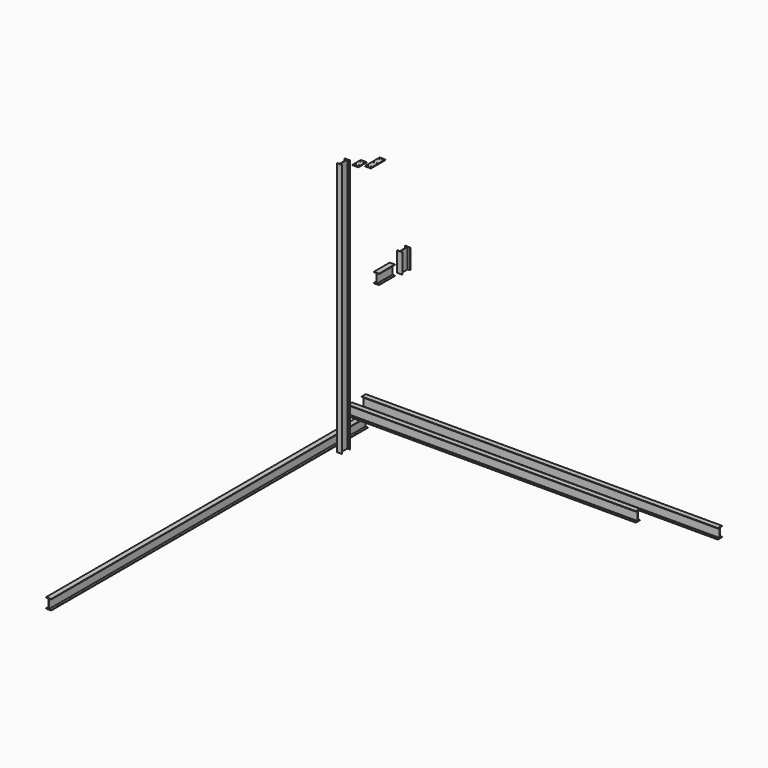
from build123d import *

# Parameters (mm, degrees)
F1_DEPTH  = 6300
F3_DEPTH  = 7000
F5_DEPTH  = 5090
F7_DEPTH  = 4500
F8_W      = 100
F8_H      = 180
F8_R      = 10.336789
F8_R_2    = 10
F9_DEPTH  = 10
F10_W     = 100
F10_H     = 320
F10_R     = 10
F11_DEPTH = 10
F13_DEPTH = 350
F15_DEPTH = 350


with BuildPart() as f1:
    # F0 (on Right) → F1 (new body)
    with BuildSketch(Plane.YZ):
        Polygon((-15.877016, -15.877018), (74.122984, -15.877018), (74.122984, -7.877018), (32.122984, -7.877018), (32.122984, 156.122982), (74.122984, 156.122982), (74.122984, 164.122982), (-15.877016, 164.122982), (-15.877016, 156.122982), (26.122984, 156.122982), (26.122984, -7.877018), (-15.877016, -7.877018), align=None)
    extrude(amount=F1_DEPTH)


with BuildPart() as f3:
    # F2 (on Front) → F3 (new body)
    with BuildSketch(Plane.XZ):
        Polygon((5.31354, -291.441248), (5.31354, -299.441248), (95.31354, -299.441248), (95.31354, -291.441248), (53.31354, -291.441248), (53.31354, -127.441248), (95.31354, -127.441248), (95.31354, -119.441248), (5.31354, -119.441248), (5.31354, -127.441248), (47.31354, -127.441248), (47.31354, -291.441248), align=None)
    extrude(amount=F3_DEPTH)


with BuildPart() as f5:
    # F4 (on Right) → F5 (new body)
    with BuildSketch(Plane.YZ):
        Polygon((-317.324877, -23.269771), (-227.324877, -23.269771), (-227.324877, -15.269771), (-269.324877, -15.269771), (-269.324877, 148.730229), (-227.324877, 148.730229), (-227.324877, 156.730229), (-317.324877, 156.730229), (-317.324877, 148.730229), (-275.324877, 148.730229), (-275.324877, -15.269771), (-317.324877, -15.269771), align=None)
    extrude(amount=F5_DEPTH)


with BuildPart() as f7:
    # F6 (on Top) → F7 (new body)
    with BuildSketch(Plane.XY):
        Polygon((574.810386, -1276.270883), (574.810386, -1284.270883), (664.810386, -1284.270883), (664.810386, -1276.270883), (622.810386, -1276.270883), (622.810386, -1112.270883), (664.810386, -1112.270883), (664.810386, -1104.270883), (574.810386, -1104.270883), (574.810386, -1112.270883), (616.810386, -1112.270883), (616.810386, -1276.270883), align=None)
    extrude(amount=F7_DEPTH)


with BuildPart() as f9:
    # F8 (on face) → F9 (new body)
    with BuildSketch(Plane.XY.offset(4500)):
        with Locations((836.307573, -1107.403431)):
            Rectangle(F8_W, F8_H)
        with Locations((806.307573, -1157.403431)):
            Circle(F8_R, mode=Mode.SUBTRACT)
        with Locations((866.307573, -1157.403431)):
            Circle(F8_R_2, mode=Mode.SUBTRACT)
        with Locations((806.307573, -1057.403431)):
            Circle(F8_R_2, mode=Mode.SUBTRACT)
        with Locations((866.307573, -1057.403431)):
            Circle(F8_R_2, mode=Mode.SUBTRACT)
    extrude(amount=F9_DEPTH)


with BuildPart() as f11:
    # F10 (on face) → F11 (new body)
    with BuildSketch(Plane.XY.offset(4510)):
        with Locations((1005.449462, -971.160498)):
            Rectangle(F10_W, F10_H)
        with Locations((975.449462, -1101.160498)):
            Circle(F10_R, mode=Mode.SUBTRACT)
        with Locations((1035.449462, -1101.160498)):
            Circle(F10_R, mode=Mode.SUBTRACT)
        with Locations((975.449462, -971.160498)):
            Circle(F10_R, mode=Mode.SUBTRACT)
        with Locations((1035.449462, -971.160498)):
            Circle(F10_R, mode=Mode.SUBTRACT)
        with Locations((975.449462, -841.160498)):
            Circle(F10_R, mode=Mode.SUBTRACT)
        with Locations((1035.449462, -841.160498)):
            Circle(F10_R, mode=Mode.SUBTRACT)
    extrude(amount=F11_DEPTH)


with BuildPart() as f13:
    # F12 (on face) → F13 (new body)
    with BuildSketch(Plane.XZ.offset(1284.270883)):
        Polygon((1511.126995, 3084.071739), (1511.126995, 3076.071739), (1601.126995, 3076.071739), (1601.126995, 3084.071739), (1559.126995, 3084.071739), (1559.126995, 3248.071739), (1601.126995, 3248.071739), (1601.126995, 3256.071739), (1511.126995, 3256.071739), (1511.126995, 3248.071739), (1553.126995, 3248.071739), (1553.126995, 3084.071739), align=None)
    extrude(amount=F13_DEPTH)


with BuildPart() as f15:
    # F14 (on face) → F15 (new body)
    with BuildSketch(Plane.XY.offset(3256.071739)):
        Polygon((1874.054637, -1280.202508), (1784.054637, -1280.202508), (1784.054637, -1288.202508), (1826.054637, -1288.202508), (1826.054637, -1452.202508), (1784.054637, -1452.202508), (1784.054637, -1460.202508), (1874.054637, -1460.202508), (1874.054637, -1452.202508), (1832.054637, -1452.202508), (1832.054637, -1288.202508), (1874.054637, -1288.202508), align=None)
    extrude(amount=F15_DEPTH)


solid = Compound([f1.part, f3.part, f5.part, f7.part, f9.part, f11.part, f13.part, f15.part])
